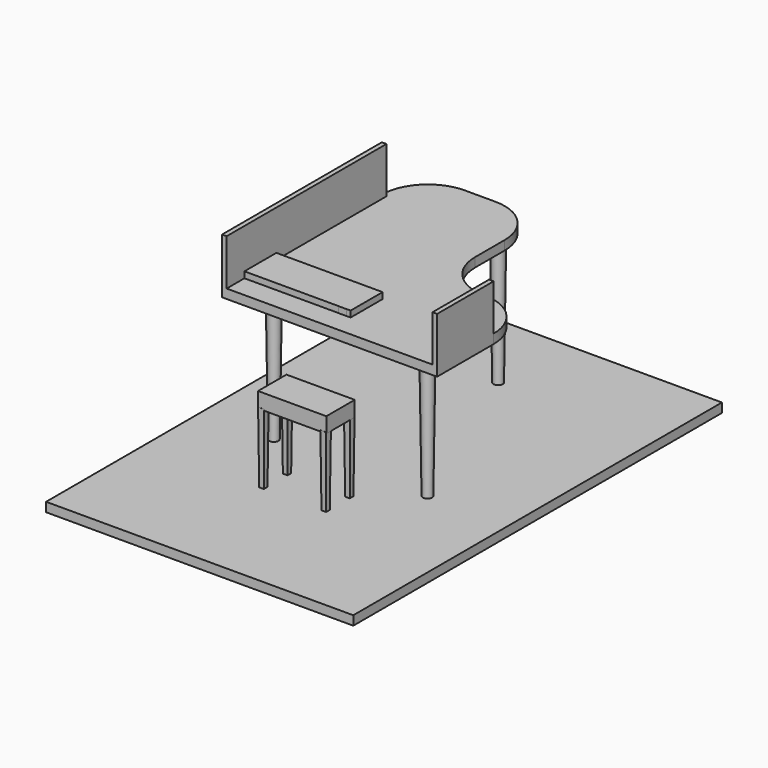
from build123d import *

# Parameters (mm, degrees)
F0_W          = 100
F0_H          = 150
F1_DEPTH      = 3
F2_R          = 1.5
F3_DEPTH      = 40
F3_TAPER      = -0.8
F4_W          = 1.5
F4_H          = 1.5
F5_DEPTH      = 23
F5_TAPER      = -0.5
F6_W          = 22.2306074575
F6_H          = 11.5619013086
F7_DEPTH      = 4.6
F7_DEPTH_BACK = 0.4
F9_DEPTH      = 3
F10_W         = 1.5
F10_H         = 65
F10_H_2       = 23
F11_DEPTH     = 15
F12_W         = 1.28
F12_H         = 13
F12_W_2       = 1.2995073211
F13_DEPTH     = 2


with BuildPart() as f1:
    # F0 (on Top) → F1 (new body)
    with BuildSketch(Plane.XY):
        with Locations((1.3026602566, 11.9441717863)):
            Rectangle(F0_W, F0_H)
    extrude(amount=F1_DEPTH)

    # F2 (on face) → F3 (join)
    with BuildSketch(Plane.XY.offset(3)):
        with Locations((0, 60.0040182471)):
            Circle(F2_R)
        with Locations((-24.9959174544, 0)):
            Circle(F2_R)
        with Locations((24.9958131462, 0)):
            Circle(F2_R)
    extrude(amount=F3_DEPTH, taper=F3_TAPER)

    # F4 (on face) → F5 (join)
    with BuildSketch(Plane.XY.offset(3)):
        with Locations((-10.6072969437, -12.6336732581)):
            Rectangle(F4_W, F4_H)
        with Locations((9.6686085388, -12.6336732581)):
            Rectangle(F4_W, F4_H)
        with Locations((-10.6072969437, -22.2625773102)):
            Rectangle(F4_W, F4_H)
        with Locations((9.6686085388, -22.2625773102)):
            Rectangle(F4_W, F4_H)
    extrude(amount=F5_DEPTH, taper=F5_TAPER)

    # F6 (on face) → F7 (join, two sides)
    with BuildSketch(Plane.XY.offset(26)) as f7_sk:
        with Locations((-0.4788641818, -17.4084207974)):
            Rectangle(F6_W, F6_H)
    extrude(amount=F7_DEPTH)
    extrude(f7_sk.sketch, amount=-F7_DEPTH_BACK)

    # F8 (on face) → F9 (join)
    with BuildSketch(Plane.XY.offset(43)):
        with BuildLine():
            Line((-36.0795073211, 57.7763375454), (-36.0795073211, -7.2236624546))
            Line((-36.0795073211, -7.2236624546), (33.9204926789, -7.2236624546))
            Line((33.9204926789, -7.2236624546), (33.9204926789, 15.7763375454))
            ThreePointArc((33.9204926789, 15.7763375454), (29.5270943967, 26.3829392632), (18.9204926789, 30.7763375454))
            ThreePointArc((18.9204926789, 30.7763375454), (8.3138909611, 35.1697358276), (3.9204926789, 45.7763375454))
            Line((3.9204926789, 45.7763375454), (3.9204926789, 57.7763375454))
            ThreePointArc((3.9204926789, 57.7763375454), (-0.4729056033, 68.3829392632), (-11.0795073211, 72.7763375454))
            Line((-11.0795073211, 72.7763375454), (-21.0795073211, 72.7763375454))
            ThreePointArc((-21.0795073211, 72.7763375454), (-31.6861090389, 68.3829392632), (-36.0795073211, 57.7763375454))
        make_face()
    extrude(amount=F9_DEPTH)

    # F10 (on face) → F11 (join)
    with BuildSketch(Plane.XY.offset(46)):
        with Locations((-35.3295073211, 25.2763375454)):
            Rectangle(F10_W, F10_H)
        with Locations((33.1704926789, 4.2763375454)):
            Rectangle(F10_W, F10_H_2)
    extrude(amount=F11_DEPTH)

    # F12 (on face) → F13 (join)
    with BuildSketch(Plane.XY.offset(46)):
        with Locations((-33.9395073211, 6.5)):
            Rectangle(F12_W, F12_H)
        with Locations((-32.6595073211, 6.5)):
            Rectangle(F12_W, F12_H)
        with Locations((-31.3795073211, 6.5)):
            Rectangle(F12_W, F12_H)
        with Locations((-30.0995073211, 6.5)):
            Rectangle(F12_W, F12_H)
        with Locations((-28.8195073211, 6.5)):
            Rectangle(F12_W, F12_H)
        with Locations((-27.5395073211, 6.5)):
            Rectangle(F12_W, F12_H)
        with Locations((-26.2595073211, 6.5)):
            Rectangle(F12_W, F12_H)
        with Locations((-24.9795073211, 6.5)):
            Rectangle(F12_W, F12_H)
        with Locations((-23.6995073211, 6.5)):
            Rectangle(F12_W, F12_H)
        with Locations((-22.4195073211, 6.5)):
            Rectangle(F12_W, F12_H)
        with Locations((-21.1395073211, 6.5)):
            Rectangle(F12_W, F12_H)
        with Locations((-19.8595073211, 6.5)):
            Rectangle(F12_W, F12_H)
        with Locations((-18.5795073211, 6.5)):
            Rectangle(F12_W, F12_H)
        with Locations((-17.2995073211, 6.5)):
            Rectangle(F12_W, F12_H)
        with Locations((-16.0195073211, 6.5)):
            Rectangle(F12_W, F12_H)
        with Locations((-14.7395073211, 6.5)):
            Rectangle(F12_W, F12_H)
        with Locations((-13.4595073211, 6.5)):
            Rectangle(F12_W, F12_H)
        with Locations((-12.1795073211, 6.5)):
            Rectangle(F12_W, F12_H)
        with Locations((-10.8995073211, 6.5)):
            Rectangle(F12_W, F12_H)
        with Locations((-9.6195073211, 6.5)):
            Rectangle(F12_W, F12_H)
        with Locations((-8.3395073211, 6.5)):
            Rectangle(F12_W, F12_H)
        with Locations((-7.0595073211, 6.5)):
            Rectangle(F12_W, F12_H)
        with Locations((-5.7795073211, 6.5)):
            Rectangle(F12_W, F12_H)
        with Locations((-4.4995073211, 6.5)):
            Rectangle(F12_W, F12_H)
        Polygon((-3.8595073211, 13), (-3.8595073211, 0), (-3.8595073211, -0.0326875597), (-2.5795073211, -0.0326875597), (-2.5795073211, 13), align=None)
        Polygon((-1.2995073211, 13), (-2.5795073211, 13), (-2.5795073211, -0.0326875597), (-1.2995073211, -0.0326875597), (-1.2995073211, 0), align=None)
        with Locations((-0.6497536606, 6.5)):
            Rectangle(F12_W_2, F12_H)
    extrude(amount=F13_DEPTH)


solid = f1.part
